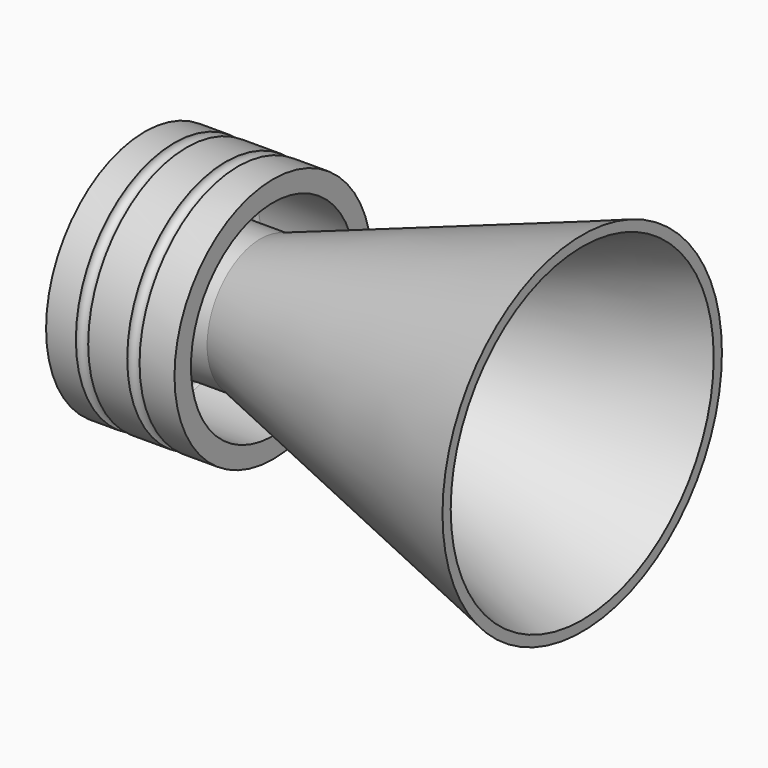
from build123d import *

# Parameters (mm, degrees)
SKETCH_R = 1.2


with BuildPart() as part:
    # Sketch001 → Revolution (revolve)
    with BuildSketch(Plane.XY):
        with BuildLine():
            Line((69.465998, 32), (6.840403, 9.206148))
            ThreePointArc((0, 8), (3.472964, 8.303845), (6.840403, 9.206148))
            ThreePointArc((-15.709628, 19), (-9.588957, 11.023387), (0, 8))
            Line((-15.709628, 19), (-15.709628, 24))
            Line((-15.709628, 24), (9.290372, 24))
            Line((9.290372, 24), (9.290372, 20))
            Line((9.290372, 20), (-9.091685, 20))
            ThreePointArc((-9.091685, 20), (-9.679446, 19.672276), (-9.709628, 19))
            ThreePointArc((-9.709628, 19), (-5.706945, 14.621021), (0, 13))
            Line((6.840403, 13), (0, 13))
            Line((69.465998, 34), (6.840403, 13))
            Line((69.465998, 32), (69.465998, 34))
        make_face()
    revolve(axis=Axis((0, 0, 0), (1, 0, 0)))

    # Sketch → Groove (revolve, cut)
    with BuildSketch(Plane.XY):
        with Locations((-8.709628, 24)):
            Circle(SKETCH_R)
        with Locations((1.290372, 24)):
            Circle(SKETCH_R)
    revolve(axis=Axis((0, 0, 0), (1, 0, 0)), mode=Mode.SUBTRACT)


solid = part.part
